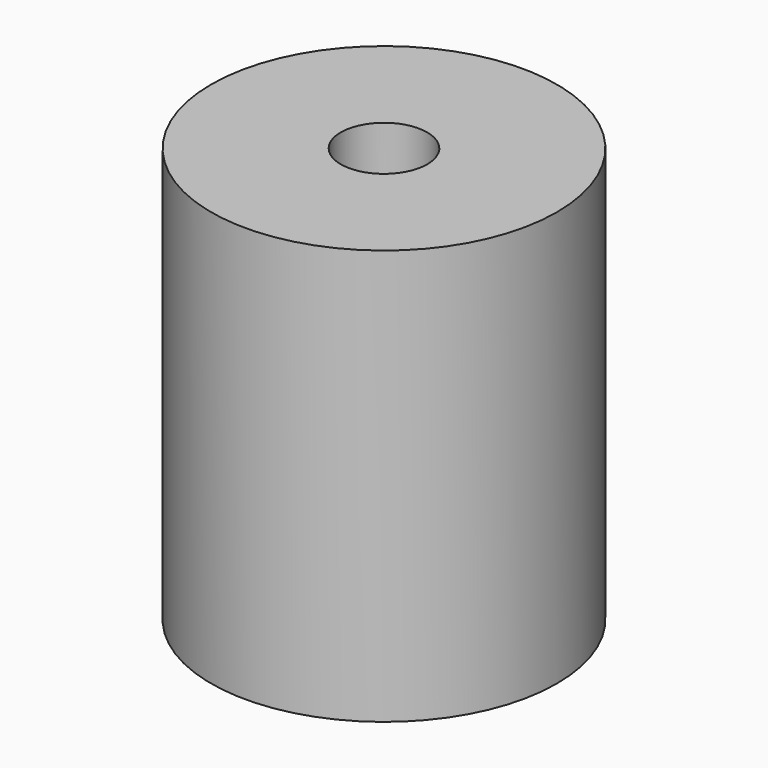
from build123d import *

# Parameters (mm, degrees)
F0_R     = 10
F0_R_2   = 2.5
F1_DEPTH = 24
F3_DEPTH = 10


with BuildPart() as f1:
    # F0 (on Top) → F1 (new body)
    with BuildSketch(Plane.XY):
        Circle(F0_R)
        Circle(F0_R_2, mode=Mode.SUBTRACT)
    extrude(amount=F1_DEPTH)

    # F2 (on Right) → F3 (cut)
    with BuildSketch(Plane.YZ):
        with BuildLine():
            ThreePointArc((0, 10), (1.414214, 10.585786), (2, 12))
            ThreePointArc((2, 12), (-1.414214, 13.414214), (0, 10))
        make_face()
    extrude(amount=-F3_DEPTH, mode=Mode.SUBTRACT)


solid = f1.part
